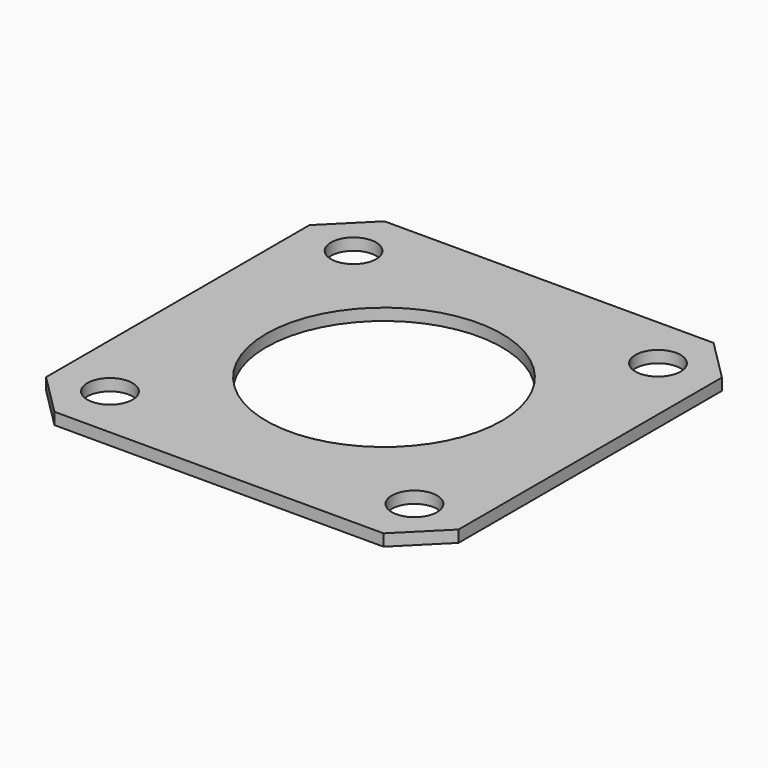
from build123d import *

# Parameters (mm, degrees)
SKETCH_R   = 2.3
SKETCH_R_2 = 12
PAD_DEPTH  = 1.2


with BuildPart() as part:
    # Sketch → Pad (new body)
    with BuildSketch(Plane.XY):
        Polygon((-16.757359, 21), (16.757359, 21), (21, 16.757359), (21, -16.757359), (16.757359, -21), (-16.757359, -21), (-21, -16.757359), (-21, 16.757359), align=None)
        with Locations((-15.5, 15.5)):
            Circle(SKETCH_R, mode=Mode.SUBTRACT)
        with Locations((15.5, 15.5)):
            Circle(SKETCH_R, mode=Mode.SUBTRACT)
        with Locations((15.5, -15.5)):
            Circle(SKETCH_R, mode=Mode.SUBTRACT)
        with Locations((-15.5, -15.5)):
            Circle(SKETCH_R, mode=Mode.SUBTRACT)
        Circle(SKETCH_R_2, mode=Mode.SUBTRACT)
    extrude(amount=PAD_DEPTH)


solid = part.part
